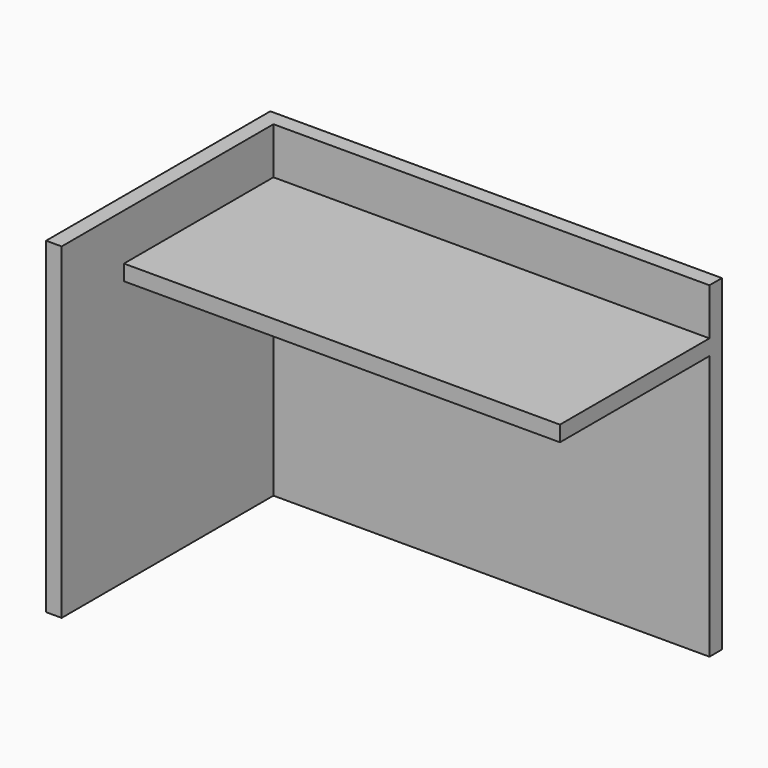
from build123d import *

# Parameters (mm, degrees)
F0_W     = 1473.2
F0_H     = 914.4
F1_DEPTH = 1066.8
F2_W     = 1422.4
F2_H     = 863.6
F3_DEPTH = 152.4
F4_W     = 1422.4
F4_H     = 863.6
F5_DEPTH = 863.6
F6_W     = 1422.4
F6_H     = 254
F7_DEPTH = 914.401


with BuildPart() as f1:
    # F0 (on Top) → F1 (new body)
    with BuildSketch(Plane.XY):
        Rectangle(F0_W, F0_H)
    extrude(amount=F1_DEPTH)

    # F2 (on face) → F3 (cut)
    with BuildSketch(Plane.XY.offset(1066.8)):
        with Locations((25.4, -25.4)):
            Rectangle(F2_W, F2_H)
    extrude(amount=-F3_DEPTH, mode=Mode.SUBTRACT)

    # F4 (on face) → F5 (cut)
    with BuildSketch(Plane(origin=(0, 0, 0), x_dir=(1, 0, 0), z_dir=(0, 0, -1))):
        with Locations((25.4, 25.4)):
            Rectangle(F4_W, F4_H)
    extrude(amount=-F5_DEPTH, mode=Mode.SUBTRACT)

    # F6 (on face) → F7 (cut, through all)
    with BuildSketch(Plane.XY.offset(914.4)):
        with Locations((25.4, -330.2)):
            Rectangle(F6_W, F6_H)
    extrude(amount=-F7_DEPTH, mode=Mode.SUBTRACT)


solid = f1.part
